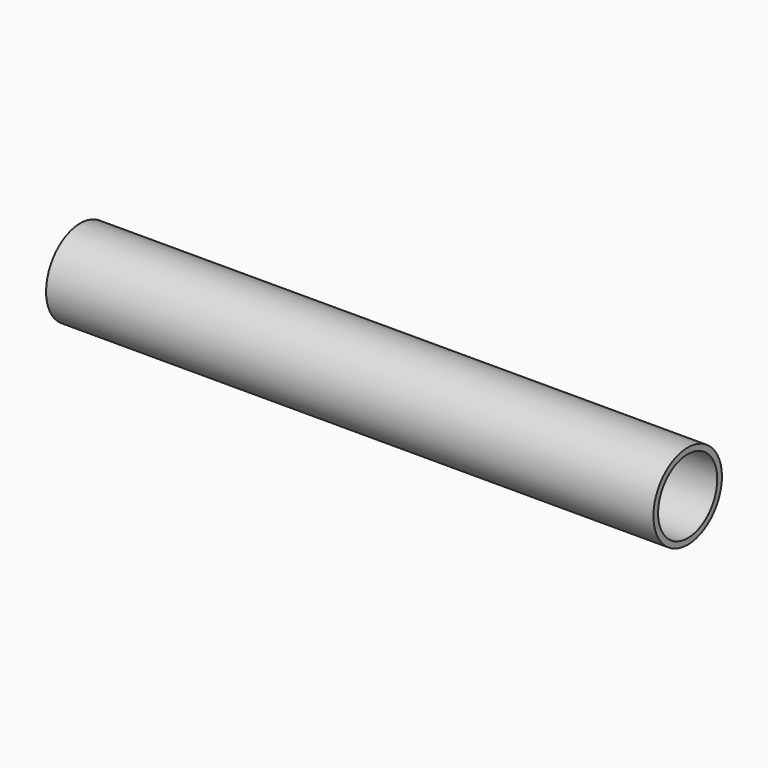
from build123d import *

# Parameters (mm, degrees)
CYLINDER001_R     = 9.5
CYLINDER001_DEPTH = 156
CYLINDER_R        = 11
CYLINDER_DEPTH    = 156
CUT_PITCH_ANGLE   = 90


with BuildPart() as int:
    # Cylinder001 → Cylinder001 (new body)
    with BuildSketch(Plane.XY):
        Circle(CYLINDER001_R)
    extrude(amount=CYLINDER001_DEPTH)


with BuildPart() as steeltube:
    # Cylinder → Cylinder (new body)
    with BuildSketch(Plane.XY):
        Circle(CYLINDER_R)
    extrude(amount=CYLINDER_DEPTH)

    # Cut: cut INT
    add(int.part, mode=Mode.SUBTRACT)


with BuildPart() as steeltube_1:
    # Cut pitch: moved
    add(steeltube.part.rotate(Axis((0, 0, 0), (0, 1, 0)), CUT_PITCH_ANGLE))


with BuildPart() as steeltube_2:
    # Cut placement: moved
    add(steeltube_1.part)


solid = steeltube_2.part
